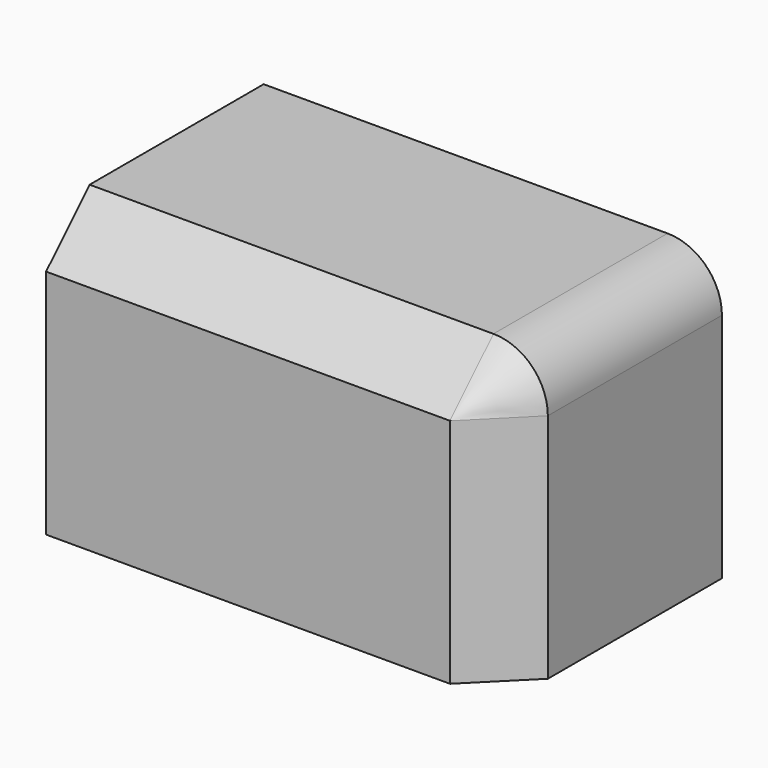
from build123d import *

# Parameters (mm, degrees)
F0_W     = 42.796455
F0_H     = 26.70499
F1_DEPTH = 25.4
F2_R     = 5.08
F3_SIZE  = 5.08
F4_R     = 6.183466
F5_DEPTH = 25.4


with BuildPart() as f1:
    # F0 (on Front) → F1 (new body)
    with BuildSketch(Plane.XZ):
        with Locations((-113.325018, 16.9474)):
            Rectangle(F0_W, F0_H)
    extrude(amount=F1_DEPTH)

    # F2
    f2_edges = [f1.edges().sort_by_distance(p)[0] for p in [
        (-91.926791, -12.7, 30.299895),
    ]]
    fillet(f2_edges, radius=F2_R)

    # F3
    f3_edges = [f1.edges().sort_by_distance(p)[0] for p in [
        (-115.865018, -25.4, 30.299895),
    ]]
    chamfer(f3_edges, length=F3_SIZE)

    # F4 (on face) → F5 (cut)
    with BuildSketch(Plane(origin=(0, 0, 3.594905), x_dir=(1, 0, 0), z_dir=(0, 0, -1))):
        with Locations((-116.761126, 10.623152)):
            Circle(F4_R)
    extrude(amount=-F5_DEPTH, mode=Mode.SUBTRACT)


solid = f1.part
